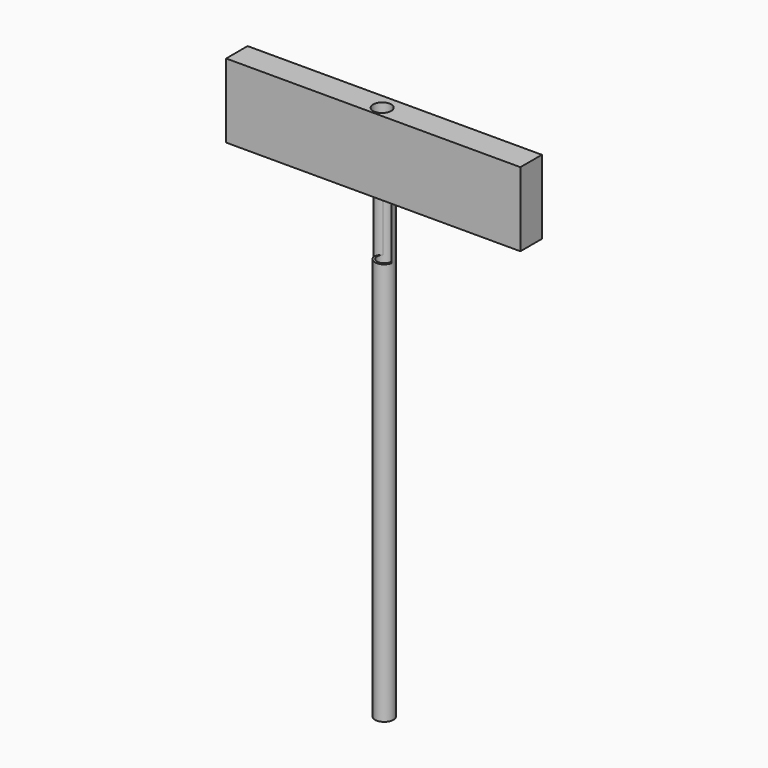
from build123d import *

# Parameters (mm, degrees)
F0_W     = 55.675162
F0_H     = 14.010968
F1_DEPTH = 5.08
F2_R     = 1.739199
F2_R_2   = 1.342124
F3_DEPTH = 101.6
F4_R     = 1.704997
F5_DEPTH = 25.4


with BuildPart() as f1:
    # F0 (on Front) → F1 (new body)
    with BuildSketch(Plane.XZ):
        with Locations((14.103145, 12.075242)):
            Rectangle(F0_W, F0_H)
    extrude(amount=F1_DEPTH)

    # F2 (on face) → F3 (join)
    with BuildSketch(Plane.XY.offset(19.080726)):
        with Locations((14.103145, -2.48879)):
            Circle(F2_R)
        with Locations((14.103145, -2.48879)):
            Circle(F2_R_2, mode=Mode.SUBTRACT)
    extrude(amount=-F3_DEPTH)

    # F4 (on face) → F5 (cut)
    with BuildSketch(Plane.XY.offset(19.080726)):
        with Locations((14.103145, -2.971026)):
            Circle(F4_R)
    extrude(amount=-F5_DEPTH, mode=Mode.SUBTRACT)


solid = f1.part
